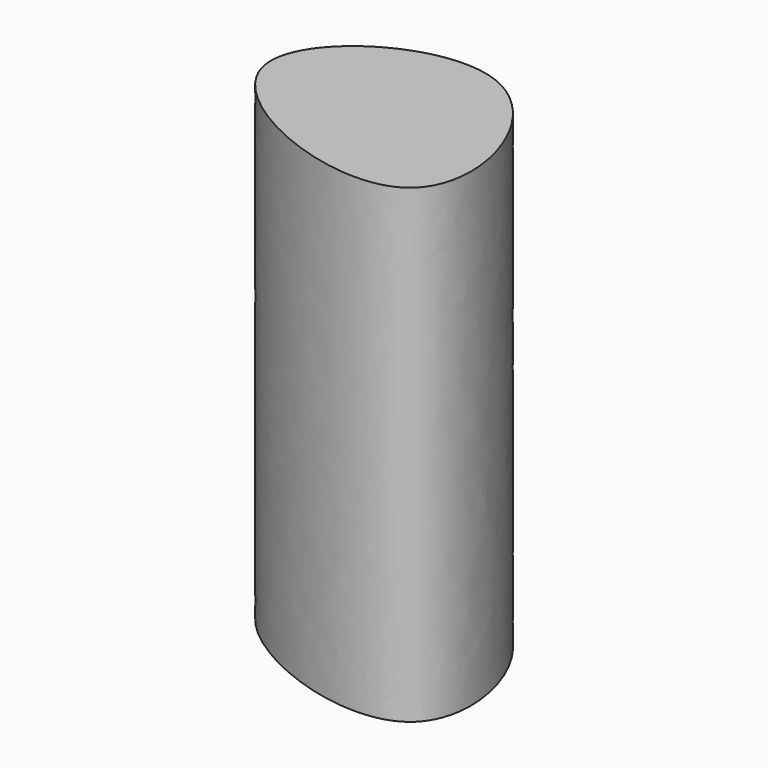
from build123d import *

# Parameters (mm, degrees)
F1_DEPTH = 254


with BuildPart() as f1:
    # F0 (on Top) → F1 (new body)
    with BuildSketch(Plane.XY):
        with BuildLine():
            add(Edge.make_bspline(
                [(59.274956584, -49.5754219592), (31.3842980181, -70.8658836753), (-124.7585713245, -5.6504971366), (44.880536292, 98.5010200745), (84.5811331938, -30.257836359), (59.274956584, -49.5754219592)],
                knots=[0, 0, 0, 0, 0.3590007309, 0.6742659956, 1, 1, 1, 1], degree=3))
        make_face()
    extrude(amount=F1_DEPTH)


solid = f1.part
